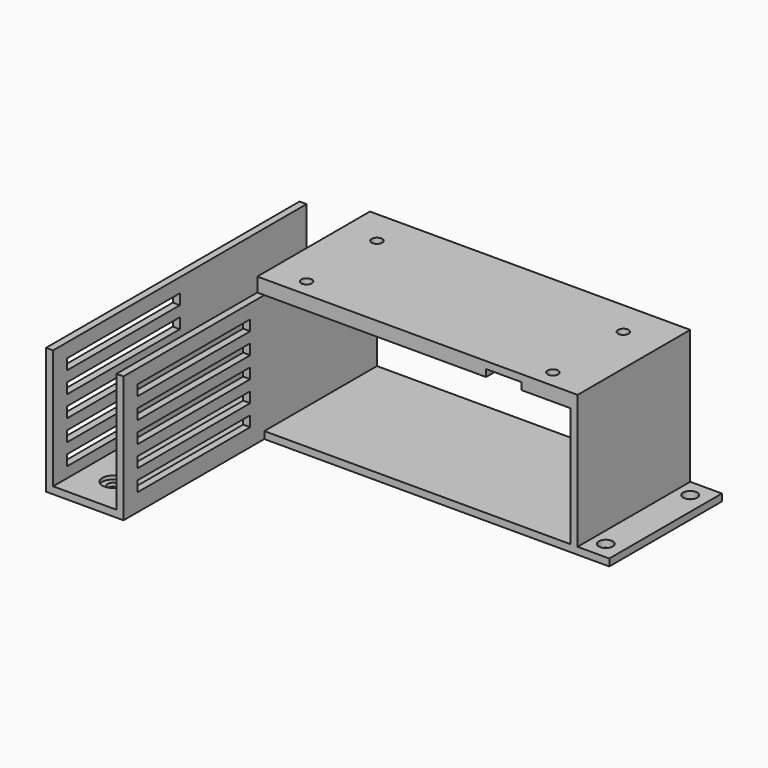
from build123d import *

# Parameters (mm, degrees)
SKETCH_W        = 130
SKETCH_H        = 40
PAD_DEPTH       = 2
SKETCH001_W     = 2
SKETCH001_H     = 40
PAD001_DEPTH    = 34
SKETCH002_R     = 2
POCKET_DEPTH    = 2
SKETCH003_R     = 2
POCKET001_DEPTH = 2
SKETCH004_W     = 91
SKETCH004_H     = 40
PAD002_DEPTH    = 4
SKETCH005_W     = 18
SKETCH005_H     = 2
PAD003_DEPTH    = 50
SKETCH006_W     = 2
SKETCH006_H     = 36
PAD004_DEPTH    = 50
SKETCH007_W     = 2
SKETCH007_H     = 36
PAD005_DEPTH    = 50
SKETCH008_R     = 3
POCKET002_DEPTH = 1
SKETCH009_R     = 3
SKETCH009_W     = 10
SKETCH009_H     = 40
POCKET003_DEPTH = 2
SKETCH010_R     = 1.5
POCKET004_DEPTH = 5
SKETCH011_W     = 40
SKETCH011_H     = 3
POCKET005_DEPTH = 40
SKETCH012_R     = 1.5
POCKET006_DEPTH = 1


with BuildPart() as part:
    # Sketch → Pad (new body)
    with BuildSketch(Plane.XY):
        with Locations((65, 20)):
            Rectangle(SKETCH_W, SKETCH_H)
    extrude(amount=PAD_DEPTH)

    # Sketch001 → Pad001 (new body)
    with BuildSketch(Plane.XY.offset(2)):
        with Locations((11, 20)):
            Rectangle(SKETCH001_W, SKETCH001_H)
        with Locations((31, 20)):
            Rectangle(SKETCH001_W, SKETCH001_H)
        with Locations((120, 20)):
            Rectangle(SKETCH001_W, SKETCH001_H)
    extrude(amount=PAD001_DEPTH)

    # Sketch002 → Pocket (cut)
    with BuildSketch(Plane.XY.offset(2)):
        with Locations((5, 5)):
            Circle(SKETCH002_R)
        with Locations((5, 35)):
            Circle(SKETCH002_R)
    extrude(amount=-POCKET_DEPTH, mode=Mode.SUBTRACT)

    # Sketch003 → Pocket001 (cut)
    with BuildSketch(Plane.XY.offset(2)):
        with Locations((125, 5)):
            Circle(SKETCH003_R)
        with Locations((125, 35)):
            Circle(SKETCH003_R)
    extrude(amount=-POCKET001_DEPTH, mode=Mode.SUBTRACT)

    # Sketch004 → Pad002 (new body)
    with BuildSketch(Plane.XY.offset(36)):
        with Locations((75.5, 20)):
            Rectangle(SKETCH004_W, SKETCH004_H)
    extrude(amount=PAD002_DEPTH)

    # Sketch005 → Pad003 (new body)
    with BuildSketch(Plane.XZ):
        with Locations((21, 1)):
            Rectangle(SKETCH005_W, SKETCH005_H)
    extrude(amount=PAD003_DEPTH)

    # Sketch006 → Pad004 (new body)
    with BuildSketch(Plane.XZ):
        with Locations((11, 18)):
            Rectangle(SKETCH006_W, SKETCH006_H)
    extrude(amount=PAD004_DEPTH)

    # Sketch007 → Pad005 (new body)
    with BuildSketch(Plane.XZ):
        with Locations((31, 18)):
            Rectangle(SKETCH007_W, SKETCH007_H)
    extrude(amount=PAD005_DEPTH)

    # Sketch008 → Pocket002 (cut)
    with BuildSketch(Plane.XY.offset(2)):
        with Locations((21, -40)):
            Circle(SKETCH008_R)
    extrude(amount=-POCKET002_DEPTH, mode=Mode.SUBTRACT)

    # Sketch009 → Pocket003 (cut)
    with BuildSketch(Plane(origin=(0, 0, 36), x_dir=(1, 0, 0), z_dir=(0, 0, -1))):
        with Locations((40, -5)):
            Circle(SKETCH009_R)
        with Locations((40, -30)):
            Circle(SKETCH009_R)
        with Locations((110, -30)):
            Circle(SKETCH009_R)
        with Locations((110, -5)):
            Circle(SKETCH009_R)
        with Locations((100, -20)):
            Rectangle(SKETCH009_W, SKETCH009_H)
    extrude(amount=-POCKET003_DEPTH, mode=Mode.SUBTRACT)

    # Sketch010 → Pocket004 (cut)
    with BuildSketch(Plane.XY.offset(40)):
        with Locations((40, 5)):
            Circle(SKETCH010_R)
        with Locations((40, 30)):
            Circle(SKETCH010_R)
        with Locations((110, 30)):
            Circle(SKETCH010_R)
        with Locations((110, 5)):
            Circle(SKETCH010_R)
    extrude(amount=-POCKET004_DEPTH, mode=Mode.SUBTRACT)

    # Sketch011 → Pocket005 (cut)
    with BuildSketch(Plane(origin=(10, 0, 0), x_dir=(0, -1, 0), z_dir=(-1, 0, 0))):
        with Locations((25, 6.5)):
            Rectangle(SKETCH011_W, SKETCH011_H)
        with Locations((25, 12.5)):
            Rectangle(SKETCH011_W, SKETCH011_H)
        with Locations((25, 18.5)):
            Rectangle(SKETCH011_W, SKETCH011_H)
        with Locations((25, 24.5)):
            Rectangle(SKETCH011_W, SKETCH011_H)
        with Locations((25, 30.5)):
            Rectangle(SKETCH011_W, SKETCH011_H)
    extrude(amount=-POCKET005_DEPTH, mode=Mode.SUBTRACT)

    # Sketch012 → Pocket006 (cut)
    with BuildSketch(Plane(origin=(0, 0, 0), x_dir=(1, 0, 0), z_dir=(0, 0, -1))):
        with Locations((21, 40)):
            Circle(SKETCH012_R)
    extrude(amount=-POCKET006_DEPTH, mode=Mode.SUBTRACT)


solid = part.part
